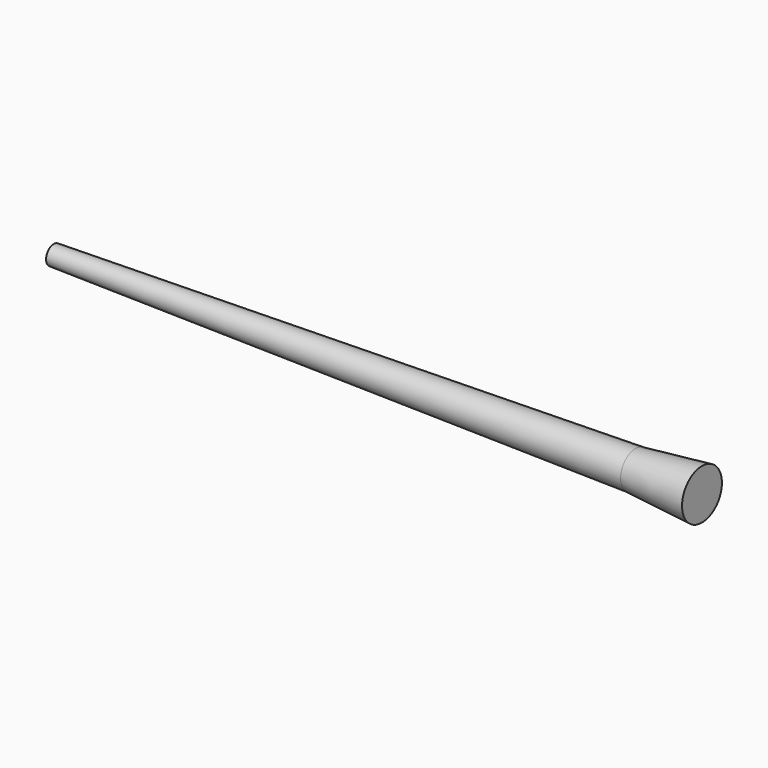
from build123d import *


with BuildPart() as f1:
    # F0 (on Top) → F1 (revolve)
    with BuildSketch(Plane.XY):
        Polygon((-94.049255, 2.3), (-94.049255, 0), (45.950745, 0), (45.950745, 4.5), align=None)
        Polygon((45.950745, 4.5), (45.950745, 0), (61.950745, 0), (61.950745, 6), align=None)
    revolve(axis=Axis((-7.657569, 0, 0), (1, 0, 0)))


solid = f1.part
